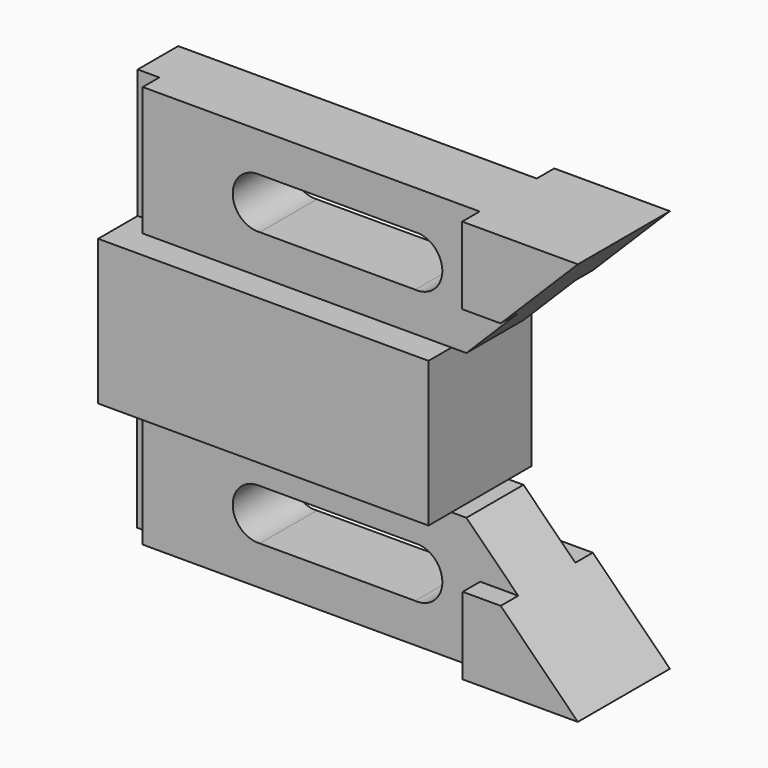
from build123d import *

# Parameters (mm, degrees)
F1_DEPTH = 14.224
F0_W     = 6.35
F0_H     = 28.448
F2_DEPTH = 7.874
F3_DEPTH = 7.874
F4_DEPTH = 12.7
F5_W     = 4.7752308284
F5_H     = 28.448
F6_DEPTH = 4.572
F5_W_2   = 7.701497525
F5_H_2   = 30.8059919626
F7_DEPTH = 4.318


with BuildPart() as f1:
    # F0 (on Front) → F1 (new body, symmetric)
    with BuildSketch(Plane.XZ):
        Polygon((-41.7818096255, 18.2387964344), (-48.1318096255, 18.2387964344), (-48.1318096255, -13.7652035656), (-41.7818096255, -13.7652035656), (24.7846730053, -13.7652035656), (24.7846730053, 18.2387964344), align=None)
    extrude(amount=F1_DEPTH, both=True)

    # F0 (on Front) → F2 (join, symmetric)
    with BuildSketch(Plane.XZ):
        Polygon((24.7846730053, -13.7652035656), (-41.7818096255, -13.7652035656), (-41.7818096255, -42.2132035656), (31.1161903745, -42.2132035656), (31.1161903745, -25.1952035656), (39.4981903745, -25.1952035656), (28.0681903745, -13.7652035656), align=None)
        with BuildLine():
            ThreePointArc((-17.5326519589, -33.5772035656), (-23.4938096255, -27.9892035656), (-17.5326519589, -22.4012035656))
            Line((-17.5326519589, -22.4012035656), (16.7847272865, -22.4012035656))
            ThreePointArc((16.7847272865, -22.4012035656), (17.1586896227, -22.3887043175), (17.5326519589, -22.4012035656))
            ThreePointArc((17.5326519589, -22.4012035656), (22.7591888709, -27.9892035656), (17.5326519589, -33.5772035656))
            ThreePointArc((17.5326519589, -33.5772035656), (17.1586896227, -33.5897028138), (16.7847272865, -33.5772035656))
            Line((16.7847272865, -33.5772035656), (-17.5326519589, -33.5772035656))
        make_face(mode=Mode.SUBTRACT)
        Polygon((30.988478276, 46.6867964344), (-41.7818096255, 46.6867964344), (-41.7818096255, 18.2387964344), (24.7846730053, 18.2387964344), (28.0681903745, 18.2387964344), (39.4986695909, 29.6692756508), (30.988478276, 29.6692756508), align=None)
        with BuildLine():
            ThreePointArc((17.526, 38.0507964344), (22.7502411118, 32.4627964344), (17.526, 26.8747964344))
            ThreePointArc((17.526, 26.8747964344), (17.1495770209, 26.8621323434), (16.7731540417, 26.8747964344))
            Line((16.7731540417, 26.8747964344), (-17.526, 26.8747964344))
            ThreePointArc((-17.526, 26.8747964344), (-23.50308707, 32.4627964344), (-17.526, 38.0507964344))
            Line((-17.526, 38.0507964344), (16.7731540417, 38.0507964344))
            ThreePointArc((16.7731540417, 38.0507964344), (17.1495770209, 38.0634605253), (17.526, 38.0507964344))
        make_face(mode=Mode.SUBTRACT)
        with Locations((-44.9568096255, 32.4627964344)):
            Rectangle(F0_W, F0_H)
        with Locations((-44.9568096255, -27.9892035656)):
            Rectangle(F0_W, F0_H)
    extrude(amount=F2_DEPTH, both=True)

    # F0 (on Front) → F3 (join, symmetric)
    with BuildSketch(Plane.XZ):
        Polygon((30.988478276, 46.6867964344), (-41.7818096255, 46.6867964344), (-41.7818096255, 18.2387964344), (24.7846730053, 18.2387964344), (28.0681903745, 18.2387964344), (39.4986695909, 29.6692756508), (30.988478276, 29.6692756508), align=None)
        with BuildLine():
            ThreePointArc((17.526, 38.0507964344), (22.7502411118, 32.4627964344), (17.526, 26.8747964344))
            ThreePointArc((17.526, 26.8747964344), (17.1495770209, 26.8621323434), (16.7731540417, 26.8747964344))
            Line((16.7731540417, 26.8747964344), (-17.526, 26.8747964344))
            ThreePointArc((-17.526, 26.8747964344), (-23.50308707, 32.4627964344), (-17.526, 38.0507964344))
            Line((-17.526, 38.0507964344), (16.7731540417, 38.0507964344))
            ThreePointArc((16.7731540417, 38.0507964344), (17.1495770209, 38.0634605253), (17.526, 38.0507964344))
        make_face(mode=Mode.SUBTRACT)
        with Locations((-44.9568096255, 32.4627964344)):
            Rectangle(F0_W, F0_H)
        with Locations((-44.9568096255, -27.9892035656)):
            Rectangle(F0_W, F0_H)
        Polygon((24.7846730053, -13.7652035656), (-41.7818096255, -13.7652035656), (-41.7818096255, -42.2132035656), (31.1161903745, -42.2132035656), (31.1161903745, -25.1952035656), (39.4981903745, -25.1952035656), (28.0681903745, -13.7652035656), align=None)
        with BuildLine():
            ThreePointArc((-17.5326519589, -33.5772035656), (-23.4938096255, -27.9892035656), (-17.5326519589, -22.4012035656))
            Line((-17.5326519589, -22.4012035656), (16.7847272865, -22.4012035656))
            ThreePointArc((16.7847272865, -22.4012035656), (17.1586896227, -22.3887043175), (17.5326519589, -22.4012035656))
            ThreePointArc((17.5326519589, -22.4012035656), (22.7591888709, -27.9892035656), (17.5326519589, -33.5772035656))
            ThreePointArc((17.5326519589, -33.5772035656), (17.1586896227, -33.5897028138), (16.7847272865, -33.5772035656))
            Line((16.7847272865, -33.5772035656), (-17.5326519589, -33.5772035656))
        make_face(mode=Mode.SUBTRACT)
    extrude(amount=F3_DEPTH, both=True)

    # F0 (on Front) → F4 (join, symmetric)
    with BuildSketch(Plane.XZ):
        Polygon((56.5161903745, 46.6867964344), (30.988478276, 46.6867964344), (30.988478276, 29.6692756508), (39.4986695909, 29.6692756508), align=None)
        Polygon((31.1161903745, -25.1952035656), (31.1161903745, -42.2132035656), (56.5161903745, -42.2132035656), (39.4981903745, -25.1952035656), align=None)
    extrude(amount=F4_DEPTH, both=True)

    # F5 (on face) → F6 (cut, symmetric)
    with BuildSketch(Plane.XZ.offset(7.874)):
        with Locations((-45.7441942113, 32.4627964344)):
            Rectangle(F5_W, F5_H)
    extrude(amount=F6_DEPTH, both=True, mode=Mode.SUBTRACT)

    # F5 (on face) → F7 (cut, symmetric)
    with BuildSketch(Plane.XZ.offset(7.874)):
        with Locations((-47.2073275596, -29.8076486215)):
            Rectangle(F5_W_2, F5_H_2)
        with Locations((-45.7441942113, 32.4627964344)):
            Rectangle(F5_W, F5_H)
    extrude(amount=F7_DEPTH, both=True, mode=Mode.SUBTRACT)


solid = f1.part
